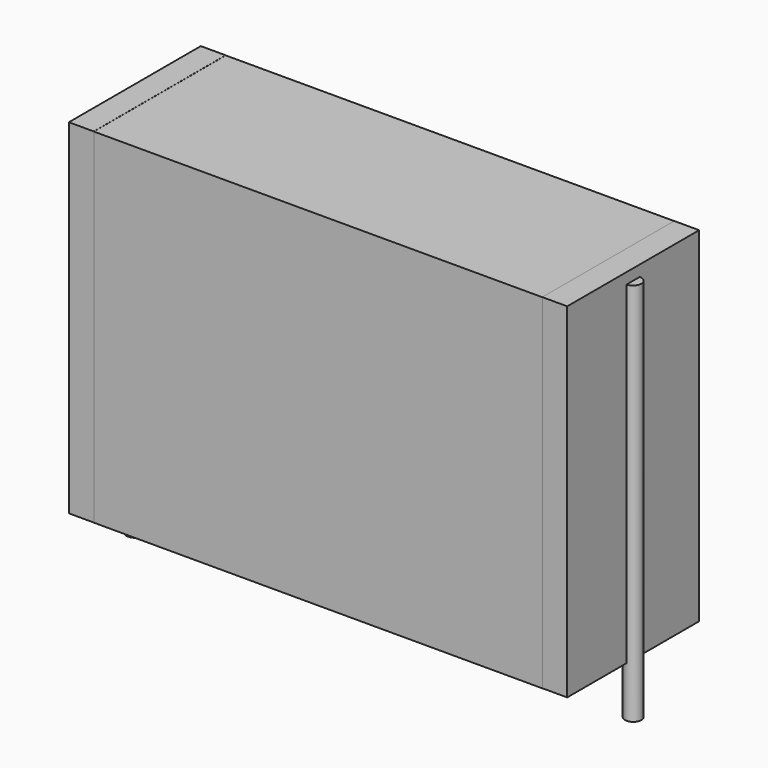
from build123d import *

# Parameters (mm, degrees)
SKETCH_W          = 24.75
SKETCH_H          = 9.1
PAD_DEPTH         = 19
SKETCH001_R       = 0.45
PAD001_DEPTH      = 18
PAD001_DEPTH_BACK = 3.2
SKETCH002_W       = 1.375
SKETCH002_H       = 9.1
PAD002_DEPTH      = 19


with BuildPart() as pad:
    # Sketch → Pad (new body)
    with BuildSketch(Plane.XY.offset(0.1)):
        with Locations((13.75, 0)):
            Rectangle(SKETCH_W, SKETCH_H)
    extrude(amount=PAD_DEPTH)


with BuildPart() as pad001:
    # Sketch001 → Pad001 (new body, two sides)
    with BuildSketch(Plane.XY.offset(0.5)) as pad001_sk:
        Circle(SKETCH001_R)
        with Locations((27.5, 0)):
            Circle(SKETCH001_R)
    extrude(amount=PAD001_DEPTH)
    extrude(pad001_sk.sketch, amount=-PAD001_DEPTH_BACK)


with BuildPart() as pad002:
    # Sketch002 → Pad002 (new body)
    with BuildSketch(Plane.XY.offset(0.105)):
        with Locations((0.6875, 0)):
            Rectangle(SKETCH002_W, SKETCH002_H)
        with Locations((26.8125, 0)):
            Rectangle(SKETCH002_W, SKETCH002_H)
    extrude(amount=PAD002_DEPTH)


solid = Compound([pad.part, pad001.part, pad002.part])
